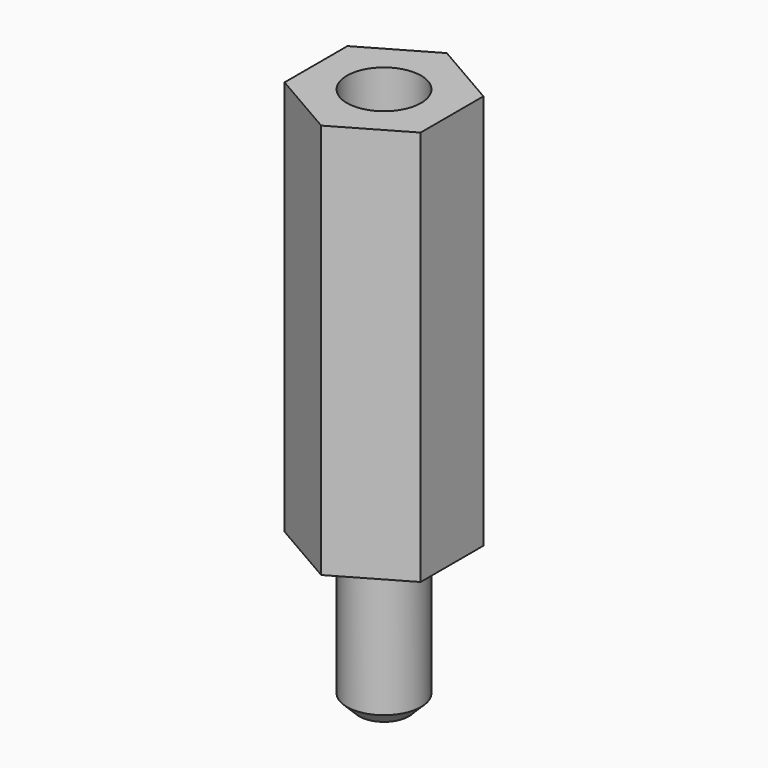
from build123d import *

# Parameters (mm, degrees)
PAD_DEPTH       = 16
SKETCH001_R     = 1.5
PAD001_DEPTH    = 6
SKETCH002_R     = 1.5
POCKET_DEPTH    = 8.5
CHAMFER_SIZE    = 1.5
CHAMFER001_SIZE = 0.5


with BuildPart() as part:
    # Sketch → Pad (new body)
    with BuildSketch(Plane.XY):
        Polygon((-2.75, -1.587713), (-2.75, 1.587713), (0, 3.175426), (2.75, 1.587713), (2.75, -1.587713), (0, -3.175426), align=None)
    extrude(amount=PAD_DEPTH)

    # Sketch001 (on Face7 of Pad) → Pad001 (new body)
    with BuildSketch(Plane(origin=(0, 0, 0), x_dir=(1, 0, 0), z_dir=(0, 0, -1))):
        Circle(SKETCH001_R)
    extrude(amount=PAD001_DEPTH)

    # Sketch002 (on Face5 of Pad001) → Pocket (cut)
    with BuildSketch(Plane.XY.offset(16)):
        Circle(SKETCH002_R)
    extrude(amount=-POCKET_DEPTH, mode=Mode.SUBTRACT)

    # Chamfer
    chamfer_edges = [part.edges().sort_by_distance(p)[0] for p in [
        (-1.5, 0, 7.5),
    ]]
    chamfer(chamfer_edges, length=CHAMFER_SIZE)

    # Chamfer001
    chamfer001_edges = [part.edges().sort_by_distance(p)[0] for p in [
        (-1.5, 0, -6),
    ]]
    chamfer(chamfer001_edges, length=CHAMFER001_SIZE)


solid = part.part
